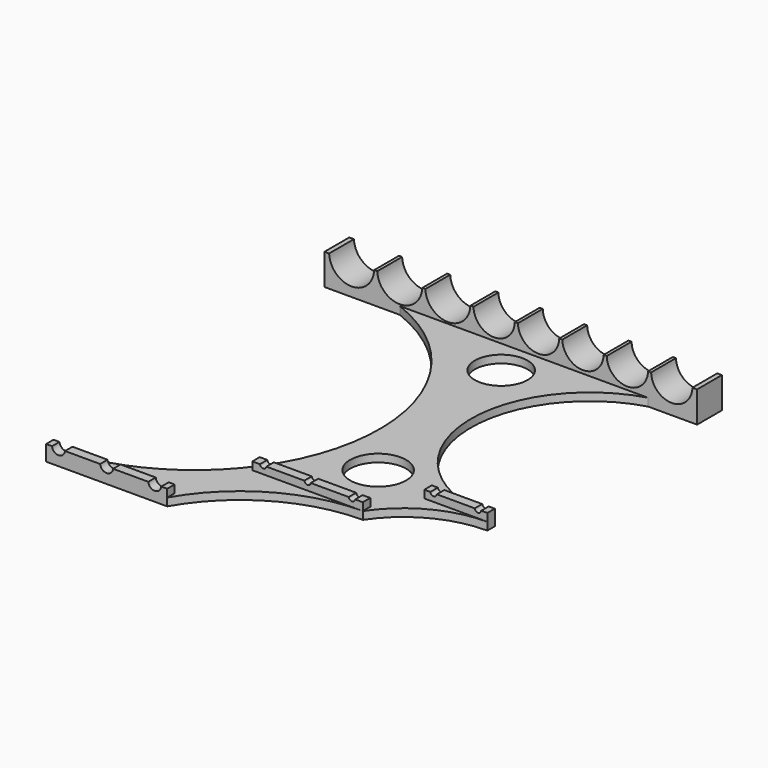
from build123d import *

# Parameters (mm, degrees)
F1_DEPTH = 10
F0_R     = 9
F0_R_2   = 8.5
F0_W     = 35.6
F0_H     = 3
F2_DEPTH = 2.5
F0_W_2   = 39
F0_W_3   = 20.3
F3_DEPTH = 5
F5_DEPTH = 10
F7_DEPTH = 43


with BuildPart() as f1:
    # F0 (on Top) → F1 (new body)
    with BuildSketch(Plane.XY):
        Polygon((-60, 5), (-60, -5), (-35.75, -5), (44.2, -5), (60, -5), (60, 5), (58.5, 5), (45.2, 5), (44.2, 5), (30.9, 5), (29.9, 5), (16.6, 5), (15.6, 5), (2.3, 5), (1.3, 5), (-12, 5), (-13, 5), (-27.5, 5), (-28.5, 5), (-43, 5), (-44, 5), (-58.5, 5), align=None)
    extrude(amount=F1_DEPTH)

    # F0 (on Top) → F2 (join)
    with BuildSketch(Plane.XY):
        with BuildLine():
            Line((44.2, -5), (-35.75, -5))
            ThreePointArc((-35.75, -5), (-0.3225250219, -43.4311769232), (-8.85, -95))
            Line((-8.85, -95), (26.75, -95))
            Line((26.75, -95), (26.75, -98))
            ThreePointArc((26.75, -98), (38.9235283255, -86.984743063), (54.85, -83))
            Line((54.85, -83), (34.55, -83))
            Line((34.55, -83), (34.55, -80))
            Line((34.55, -80), (54.85, -80))
            ThreePointArc((54.85, -80), (16.9738118998, -47.1222687102), (44.2, -5))
        make_face()
        with Locations((15.8479269594, -78.1992301345)):
            Circle(F0_R, mode=Mode.SUBTRACT)
        with Locations((6.0314284638, -16.3851659745)):
            Circle(F0_R_2, mode=Mode.SUBTRACT)
        with BuildLine():
            Line((-8.85, -98), (-8.85, -95))
            ThreePointArc((-8.85, -95), (-29.1337234425, -112.9126092907), (-55.25, -120))
            Line((-55.25, -120), (-16.25, -120))
            Line((-16.25, -120), (-16.25, -123))
            ThreePointArc((-16.25, -123), (1.8803397691, -104.7041844029), (26.75, -98))
            Line((26.75, -98), (-8.85, -98))
        make_face()
        with Locations((8.95, -96.5)):
            Rectangle(F0_W, F0_H)
    extrude(amount=F2_DEPTH)

    # F0 (on Top) → F3 (join)
    with BuildSketch(Plane.XY):
        with Locations((-35.75, -121.5)):
            Rectangle(F0_W_2, F0_H)
        with Locations((8.95, -96.5)):
            Rectangle(F0_W, F0_H)
        with Locations((44.7, -81.5)):
            Rectangle(F0_W_3, F0_H)
    extrude(amount=F3_DEPTH)

    # F4 (on face) → F5 (cut, through all)
    with BuildSketch(Plane(origin=(0, 5, 0), x_dir=(-1, 0, 0), z_dir=(0, 1, 0))):
        with BuildLine():
            Line((-45.2016919446, 10), (-58.4983080554, 10))
            ThreePointArc((-58.4983080554, 10), (-51.85, 3.5), (-45.2016919446, 10))
        make_face()
        with BuildLine():
            Line((-30.9016919446, 10), (-44.1983080554, 10))
            ThreePointArc((-44.1983080554, 10), (-37.55, 3.5), (-30.9016919446, 10))
        make_face()
        with BuildLine():
            Line((-16.6016919446, 10), (-29.8983080554, 10))
            ThreePointArc((-29.8983080554, 10), (-23.25, 3.5), (-16.6016919446, 10))
        make_face()
        with BuildLine():
            ThreePointArc((-15.5983080554, 10), (-8.95, 3.5), (-2.3016919446, 10))
            Line((-2.3016919446, 10), (-15.5983080554, 10))
        make_face()
        with BuildLine():
            ThreePointArc((-1.2983080554, 10), (5.35, 3.5), (11.9983080554, 10))
            Line((11.9983080554, 10), (-1.2983080554, 10))
        make_face()
        with BuildLine():
            ThreePointArc((13.0043116269, 10), (20.25, 3), (27.4956883731, 10))
            Line((27.4956883731, 10), (13.0043116269, 10))
        make_face()
        with BuildLine():
            ThreePointArc((28.5043116269, 10), (35.75, 3), (42.9956883731, 10))
            Line((42.9956883731, 10), (28.5043116269, 10))
        make_face()
        with BuildLine():
            ThreePointArc((44.0043116269, 10), (51.25, 3), (58.4956883731, 10))
            Line((58.4956883731, 10), (44.0043116269, 10))
        make_face()
    extrude(amount=-F5_DEPTH, mode=Mode.SUBTRACT)

    # F6 (on face) → F7 (cut, through all)
    with BuildSketch(Plane.XZ.offset(123)):
        with BuildLine():
            Line((-49.159545504, 5), (-53.340454496, 5))
            ThreePointArc((-53.340454496, 5), (-51.25, 3.1), (-49.159545504, 5))
        make_face()
        with BuildLine():
            Line((-33.659545504, 5), (-37.840454496, 5))
            ThreePointArc((-37.840454496, 5), (-35.75, 3.1), (-33.659545504, 5))
        make_face()
        with BuildLine():
            ThreePointArc((-22.340454496, 5), (-20.25, 3.1), (-18.159545504, 5))
            Line((-18.159545504, 5), (-22.340454496, 5))
        make_face()
        with BuildLine():
            Line((-4.3107695155, 5), (-6.3892304845, 5))
            ThreePointArc((-6.3892304845, 5), (-5.35, 4.1), (-4.3107695155, 5))
        make_face()
        with BuildLine():
            ThreePointArc((7.9107695155, 5), (8.95, 4.1), (9.9892304845, 5))
            Line((9.9892304845, 5), (7.9107695155, 5))
        make_face()
        with BuildLine():
            ThreePointArc((22.2107695155, 5), (23.25, 4.1), (24.2892304845, 5))
            Line((24.2892304845, 5), (22.2107695155, 5))
        make_face()
        with BuildLine():
            Line((38.5892304845, 5), (36.5107695155, 5))
            ThreePointArc((36.5107695155, 5), (37.55, 4.1), (38.5892304845, 5))
        make_face()
        with BuildLine():
            Line((52.8892304845, 5), (50.8107695155, 5))
            ThreePointArc((50.8107695155, 5), (51.85, 4.1), (52.8892304845, 5))
        make_face()
    extrude(amount=-F7_DEPTH, mode=Mode.SUBTRACT)


solid = f1.part
